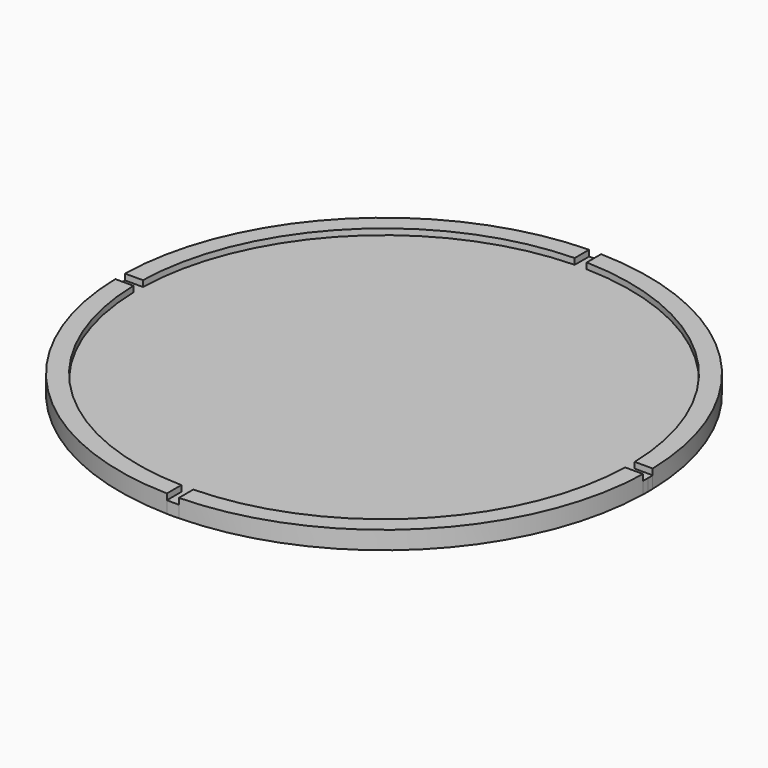
from build123d import *

# Parameters (mm, degrees)
F1_DEPTH = 1.5
F2_DEPTH = 1


with BuildPart() as f1:
    # F0 (on Top) → F1 (new body)
    with BuildSketch(Plane.XY):
        with BuildLine():
            Line((-0.5, 20.493902), (-0.5, 21.994317))
            ThreePointArc((-0.5, 21.994317), (-15.556349, 15.556349), (-21.994317, 0.5))
            Line((-21.994317, 0.5), (-20.493902, 0.5))
            ThreePointArc((-20.493902, 0.5), (-14.495689, 14.495689), (-0.5, 20.493902))
        make_face()
        with BuildLine():
            ThreePointArc((-21.994317, -0.5), (-15.556349, -15.556349), (-0.5, -21.994317))
            Line((-0.5, -21.994317), (-0.5, -20.493902))
            ThreePointArc((-0.5, -20.493902), (-14.495689, -14.495689), (-20.493902, -0.5))
            Line((-20.493902, -0.5), (-21.994317, -0.5))
        make_face()
        with BuildLine():
            ThreePointArc((0.5, -21.994317), (15.556349, -15.556349), (21.994317, -0.5))
            Line((21.994317, -0.5), (20.493902, -0.5))
            ThreePointArc((20.493902, -0.5), (14.495689, -14.495689), (0.5, -20.493902))
            Line((0.5, -20.493902), (0.5, -21.994317))
        make_face()
        with BuildLine():
            Line((20.493902, 0.5), (21.994317, 0.5))
            ThreePointArc((21.994317, 0.5), (15.556349, 15.556349), (0.5, 21.994317))
            Line((0.5, 21.994317), (0.5, 20.493902))
            ThreePointArc((0.5, 20.493902), (14.495689, 14.495689), (20.493902, 0.5))
        make_face()
    extrude(amount=F1_DEPTH)


with BuildPart() as f2:
    # F0 (on Top) → F2 (new body)
    with BuildSketch(Plane.XY):
        with BuildLine():
            ThreePointArc((-0.5, -21.994317), (0, -22), (0.5, -21.994317))
            Line((0.5, -21.994317), (0.5, -20.493902))
            ThreePointArc((0.5, -20.493902), (0, -20.5), (-0.5, -20.493902))
            Line((-0.5, -20.493902), (-0.5, -21.994317))
        make_face()
        with BuildLine():
            Line((-20.493902, 0.5), (-21.994317, 0.5))
            ThreePointArc((-21.994317, 0.5), (-22, 0), (-21.994317, -0.5))
            Line((-21.994317, -0.5), (-20.493902, -0.5))
            ThreePointArc((-20.493902, -0.5), (-20.5, 0), (-20.493902, 0.5))
        make_face()
        with BuildLine():
            ThreePointArc((21.994317, -0.5), (21.998579, -0.250016), (22, 0))
            ThreePointArc((22, 0), (21.998579, 0.250016), (21.994317, 0.5))
            Line((21.994317, 0.5), (20.493902, 0.5))
            ThreePointArc((20.493902, 0.5), (20.498475, 0.250019), (20.5, 0))
            ThreePointArc((20.5, 0), (20.498475, -0.250019), (20.493902, -0.5))
            Line((20.493902, -0.5), (21.994317, -0.5))
        make_face()
        with BuildLine():
            Line((0.5, 20.493902), (0.5, 21.994317))
            ThreePointArc((0.5, 21.994317), (0, 22), (-0.5, 21.994317))
            Line((-0.5, 21.994317), (-0.5, 20.493902))
            ThreePointArc((-0.5, 20.493902), (0, 20.5), (0.5, 20.493902))
        make_face()
        with BuildLine():
            ThreePointArc((20.5, 0), (20.498475, 0.250019), (20.493902, 0.5))
            ThreePointArc((20.493902, 0.5), (14.495689, 14.495689), (0.5, 20.493902))
            ThreePointArc((0.5, 20.493902), (0, 20.5), (-0.5, 20.493902))
            ThreePointArc((-0.5, 20.493902), (-14.495689, 14.495689), (-20.493902, 0.5))
            ThreePointArc((-20.493902, 0.5), (-20.5, 0), (-20.493902, -0.5))
            ThreePointArc((-20.493902, -0.5), (-14.495689, -14.495689), (-0.5, -20.493902))
            ThreePointArc((-0.5, -20.493902), (0, -20.5), (0.5, -20.493902))
            ThreePointArc((0.5, -20.493902), (14.495689, -14.495689), (20.493902, -0.5))
            ThreePointArc((20.493902, -0.5), (20.498475, -0.250019), (20.5, 0))
        make_face()
    extrude(amount=F2_DEPTH)


solid = Compound([f1.part, f2.part])
